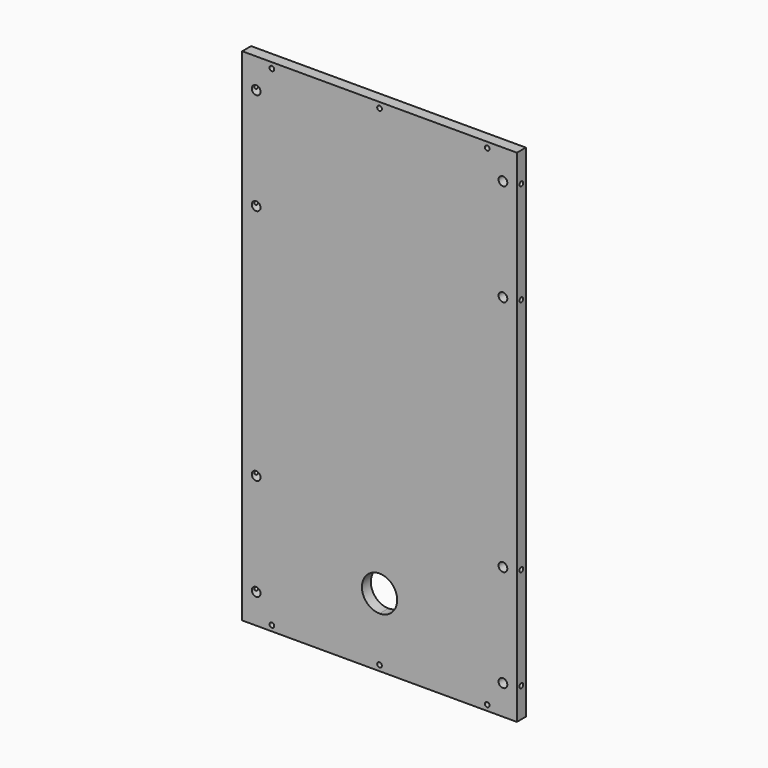
from build123d import *

# Parameters (mm, degrees)
F0_W     = 469.9
F0_H     = 857.25
F1_DEPTH = 19.05
F3_D     = 8.001
F3_DEPTH = 14.224
F3_TIP   = 2.4037429064
F5_D     = 15.0114
F5_DEPTH = 14.224
F5_TIP   = 4.5098795482
F7_D     = 8.001
F7_DEPTH = 25.4
F7_TIP   = 2.4037429064
F9_D     = 8.001
F9_DEPTH = 25.4
F9_TIP   = 2.4037429064


with BuildPart() as f1:
    # F0 (on Front) → F1 (new body)
    with BuildSketch(Plane.XZ):
        Rectangle(F0_W, F0_H)
        with BuildLine():
            ThreePointArc((0, -341.8299634457), (-21.3281082875, -290.3393551581), (30.1625, -311.6674634457))
            ThreePointArc((30.1625, -311.6674634457), (21.3281082875, -332.9955717332), (0, -341.8299634457))
        make_face(mode=Mode.SUBTRACT)
    extrude(amount=F1_DEPTH)

    # F3
    with Locations(Plane.XZ.offset(19.05)):
        with Locations((-184.15, 419.1), (0, 419.1), (184.15, 419.1), (-184.15, -419.1), (0, -419.1), (184.15, -419.1)):
            Hole(F3_D / 2, depth=F3_DEPTH)
            with Locations((0, 0, -(F3_DEPTH + F3_TIP / 2))):  # 118° drill point
                Cone(0, F3_D / 2, F3_TIP, mode=Mode.SUBTRACT)

    # F5
    with Locations(Plane.XZ.offset(19.05)):
        with Locations((-211.074, 377.825), (211.074, 377.825), (211.074, 203.2), (-211.074, 203.2), (-211.074, -203.2), (211.074, -203.2), (211.074, -377.825), (-211.074, -377.825)):
            Hole(F5_D / 2, depth=F5_DEPTH)
            with Locations((0, 0, -(F5_DEPTH + F5_TIP / 2))):  # 118° drill point
                Cone(0, F5_D / 2, F5_TIP, mode=Mode.SUBTRACT)

    # F7
    with Locations(Plane.YZ.offset(234.95)):
        with Locations((-9.525, 377.825), (-9.525, 203.2), (-9.525, -203.2), (-9.525, -377.825)):
            Hole(F7_D / 2, depth=F7_DEPTH)
            with Locations((0, 0, -(F7_DEPTH + F7_TIP / 2))):  # 118° drill point
                Cone(0, F7_D / 2, F7_TIP, mode=Mode.SUBTRACT)

    # F9
    with Locations(Plane(origin=(-234.95, 0, 0), x_dir=(0, -1, 0), z_dir=(-1, 0, 0))):
        with Locations((9.525, 377.825), (9.525, 203.2), (9.525, -203.2), (9.525, -377.825)):
            Hole(F9_D / 2, depth=F9_DEPTH)
            with Locations((0, 0, -(F9_DEPTH + F9_TIP / 2))):  # 118° drill point
                Cone(0, F9_D / 2, F9_TIP, mode=Mode.SUBTRACT)


solid = f1.part
